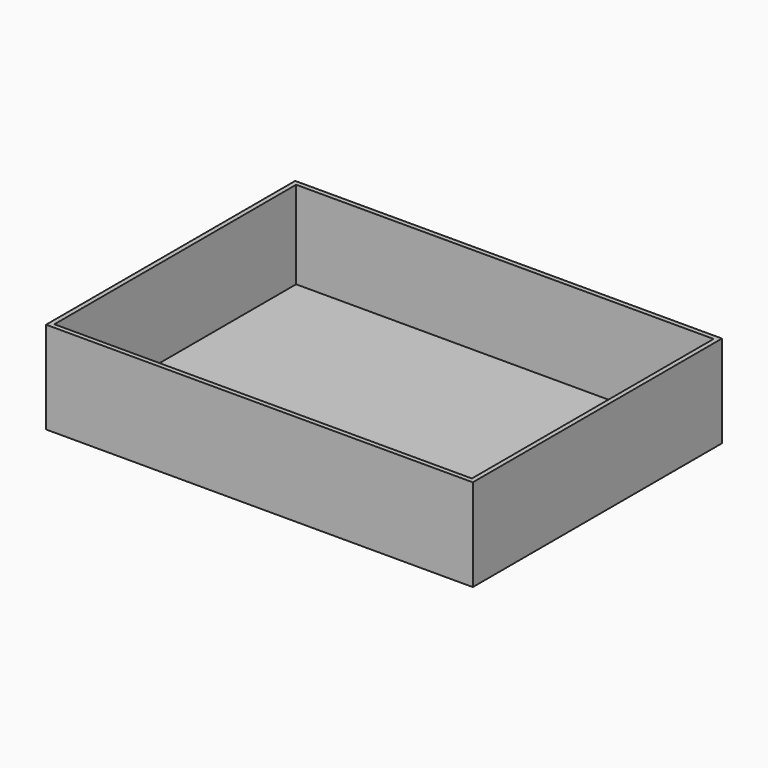
from build123d import *

# Parameters (mm, degrees)
F0_W     = 370
F0_H     = 270
F1_DEPTH = 80
F2_W     = 362
F2_H     = 262
F3_DEPTH = 76


with BuildPart() as f1:
    # F0 (on Top) → F1 (new body)
    with BuildSketch(Plane.XY):
        with Locations((-185, 135)):
            Rectangle(F0_W, F0_H)
    extrude(amount=-F1_DEPTH)

    # F2 (on face) → F3 (cut)
    with BuildSketch(Plane.XY):
        with Locations((-185, 135)):
            Rectangle(F2_W, F2_H)
    extrude(amount=-F3_DEPTH, mode=Mode.SUBTRACT)


solid = f1.part
